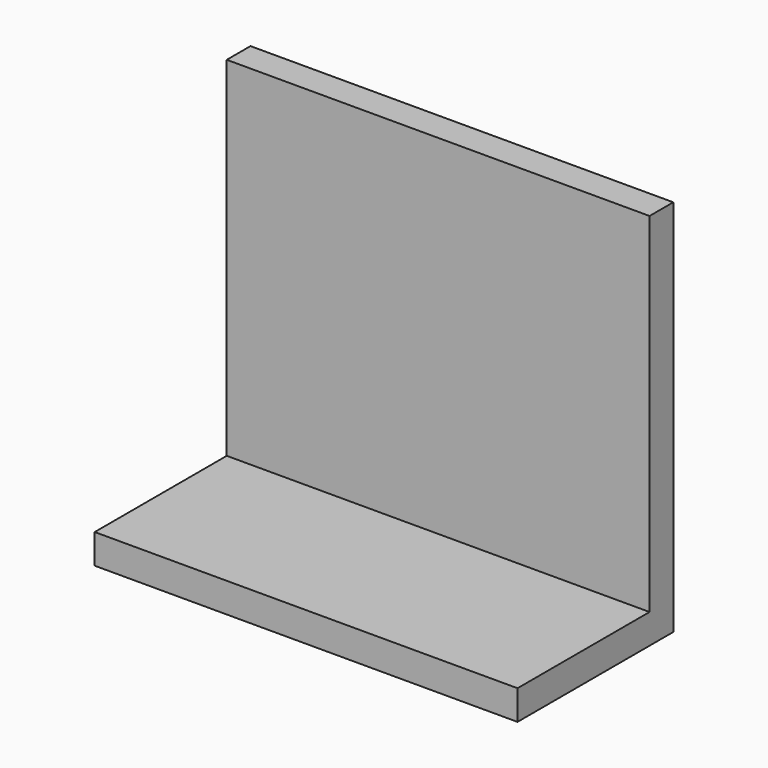
from build123d import *

# Parameters (mm, degrees)
F0_W     = 565.15
F0_H     = 101.6
F1_DEPTH = 1447.8
F2_W     = 101.6
F2_H     = 1295.4
F3_DEPTH = 1447.8


with BuildPart() as f1:
    # F0 (on Right) → F1 (new body)
    with BuildSketch(Plane.YZ):
        with Locations((71.596854, -22.620682)):
            Rectangle(F0_W, F0_H)
    extrude(amount=F1_DEPTH)

    # F2 (on Right) → F3 (join)
    with BuildSketch(Plane.YZ):
        with Locations((404.971854, 574.279318)):
            Rectangle(F2_W, F2_H)
    extrude(amount=F3_DEPTH)


solid = f1.part
